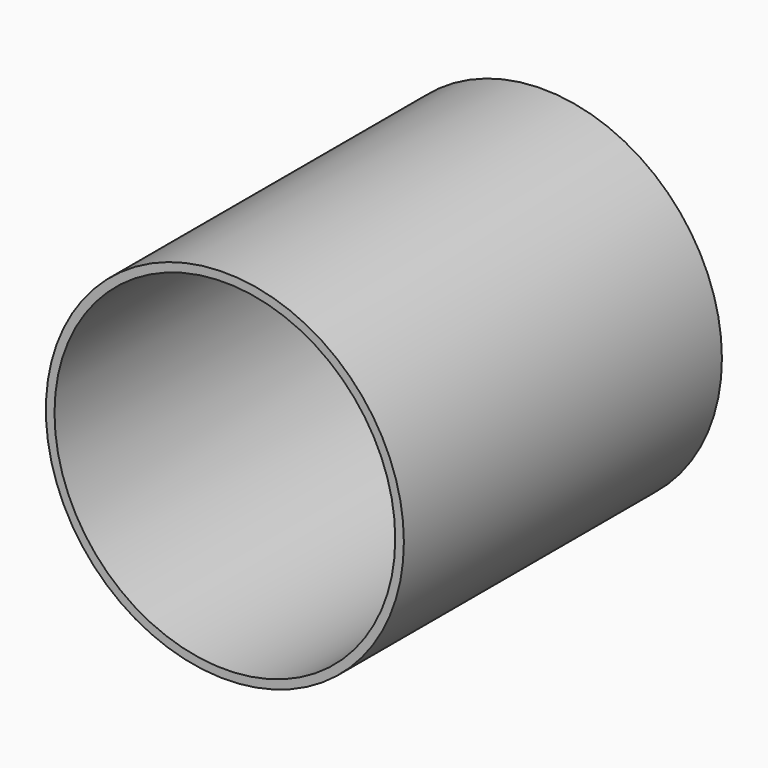
from build123d import *

# Parameters (mm, degrees)
F0_R           = 51.7823878283
F1_DEPTH       = 100
F2_T           = -2.5
F3_R           = 22.1222661474
F3_R_2         = 14.7466183109
F4_DEPTH       = 10
F6_D           = 10
F6_CBORE_D     = 10
F6_CBORE_DEPTH = 5
F7_DEPTH       = 5
F8_DEPTH       = 10


with BuildPart() as f1:
    # F0 (on Front) → F1 (new body)
    with BuildSketch(Plane.XZ):
        Circle(F0_R)
    extrude(amount=F1_DEPTH)

    # F2
    f2_openings = [f1.faces().sort_by_distance(p)[0] for p in [
        (0, -100, 0),
    ]]
    offset(amount=F2_T, openings=f2_openings)

    # F3 (on Front) → F4 (join)
    with BuildSketch(Plane.XZ):
        Circle(F3_R)
        Circle(F3_R_2, mode=Mode.SUBTRACT)
    extrude(amount=F4_DEPTH)

    # F6 (through all)
    with Locations(Plane(origin=(0, 0, 0), x_dir=(1, 0, 0), z_dir=(0, 1, 0))):
        with Locations((0, 0)):
            CounterBoreHole(F6_D / 2, F6_CBORE_D / 2, F6_CBORE_DEPTH)

    # F7 (add): a face of the model
    f7_faces = [f1.faces().sort_by_distance(p)[0] for p in [
        (-50.3177607251, -100, 0),
    ]]
    extrude(f7_faces, amount=F7_DEPTH)

    # F8 (add): a face of the model
    f8_faces = [f1.faces().sort_by_distance(p)[0] for p in [
        (-50.3177607251, -105, 0),
    ]]
    extrude(f8_faces, amount=F8_DEPTH)


solid = f1.part
